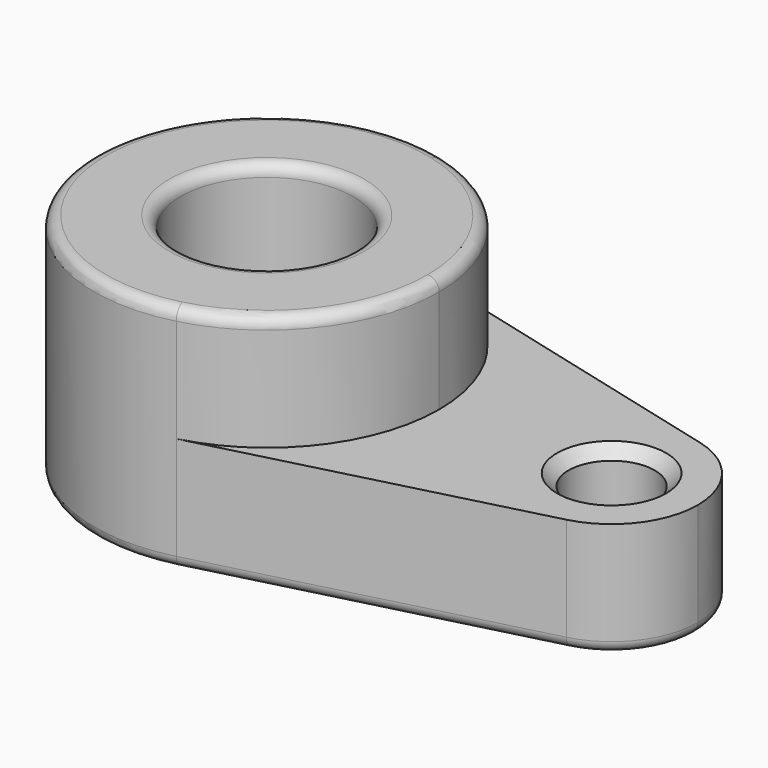
from build123d import *

# Parameters (mm, degrees)
F0_R     = 15
F0_R_2   = 7.5
F1_DEPTH = 20
F2_DEPTH = 20
F3_R     = 2
F4_SIZE  = 2


with BuildPart() as f1:
    # F0 (on Top) → F1 (new body)
    with BuildSketch(Plane.XY):
        with BuildLine():
            ThreePointArc((7.5, -29.047375), (23.717082, -18.371173), (30, 0))
            ThreePointArc((30, 0), (23.717082, 18.371173), (7.5, 29.047375))
            ThreePointArc((7.5, 29.047375), (-30, 0), (7.5, -29.047375))
        make_face()
        Circle(F0_R, mode=Mode.SUBTRACT)
        with BuildLine():
            ThreePointArc((7.5, 29.047375), (23.717082, 18.371173), (30, 0))
            ThreePointArc((30, 0), (23.717082, -18.371173), (7.5, -29.047375))
            Line((7.5, -29.047375), (63.75, -14.523688))
            ThreePointArc((63.75, -14.523688), (45, 0), (63.75, 14.523688))
            Line((63.75, 14.523688), (7.5, 29.047375))
        make_face()
        with BuildLine():
            ThreePointArc((75, 0), (71.858541, 9.185587), (63.75, 14.523688))
            ThreePointArc((63.75, 14.523688), (45, 0), (63.75, -14.523688))
            ThreePointArc((63.75, -14.523688), (71.858541, -9.185587), (75, 0))
        make_face()
        with Locations((60, 0)):
            Circle(F0_R_2, mode=Mode.SUBTRACT)
    extrude(amount=-F1_DEPTH)

    # F0 (on Top) → F2 (join)
    with BuildSketch(Plane.XY):
        with BuildLine():
            ThreePointArc((7.5, -29.047375), (23.717082, -18.371173), (30, 0))
            ThreePointArc((30, 0), (23.717082, 18.371173), (7.5, 29.047375))
            ThreePointArc((7.5, 29.047375), (-30, 0), (7.5, -29.047375))
        make_face()
        Circle(F0_R, mode=Mode.SUBTRACT)
    extrude(amount=F2_DEPTH)

    # F3
    f3_edges = [f1.edges().sort_by_distance(p)[0] for p in [
        (-7.5, 29.047375, 20),
        (-15, 0, 20),
        (-30, 0, -20),
        (35.625, -21.785531, -20),
        (75, 0, -20),
        (35.625, 21.785531, -20),
        (-15, 0, -20),
        (52.5, 0, -20),
    ]]
    fillet(f3_edges, radius=F3_R)

    # F4
    f4_edges = [f1.edges().sort_by_distance(p)[0] for p in [
        (52.5, 0, 0),
    ]]
    chamfer(f4_edges, length=F4_SIZE)


solid = f1.part
